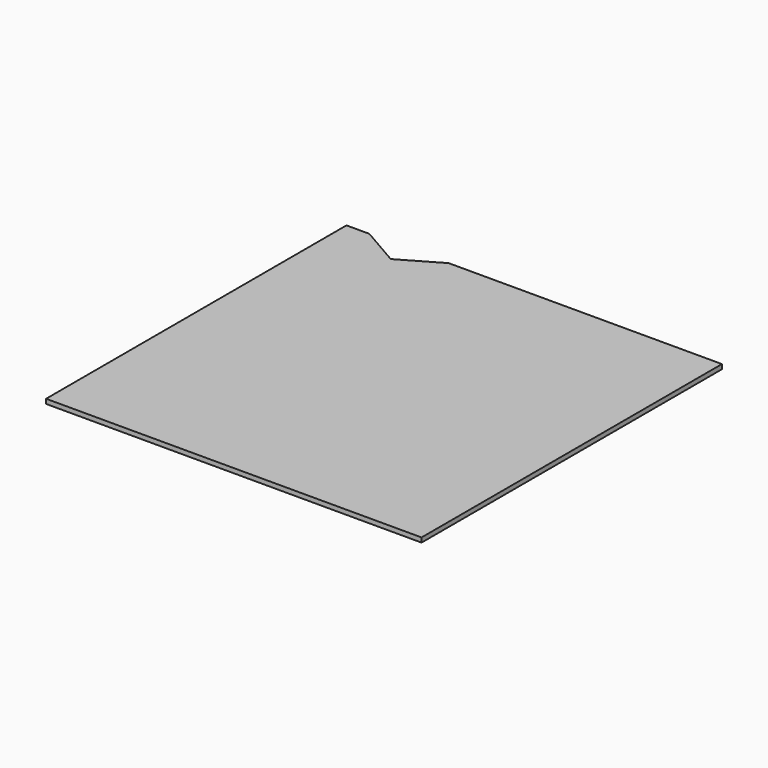
from build123d import *

# Parameters (mm, degrees)
F1_DEPTH = 3


with BuildPart() as f1:
    # F0 (on Top) → F1 (new body)
    with BuildSketch(Plane.XY):
        Polygon((-81.961524, 107.942286), (-66.961524, 81.961524), (-40.980762, 96.961524), (-55.980762, 122.942286), align=None)
        Polygon((-122.942286, 96.961524), (-107.942286, 122.942286), (-122.942286, 122.942286), align=None)
        Polygon((-122.942286, 66.961524), (-96.961524, 81.961524), (-122.942286, 96.961524), align=None)
        Polygon((-81.961524, 55.980762), (-66.961524, 81.961524), (-81.961524, 107.942286), (-96.961524, 81.961524), align=None)
        Polygon((40.980762, 96.961524), (40.980762, 66.961524), (66.961524, 81.961524), align=None)
        Polygon((-122.942286, -122.942286), (-107.942286, -122.942286), (-122.942286, -96.961524), align=None)
        Polygon((-55.980762, -122.942286), (-81.961524, -107.942286), (-107.942286, -122.942286), align=None)
        Polygon((-81.961524, -107.942286), (-66.961524, -81.961524), (-81.961524, -55.980762), (-96.961524, -81.961524), align=None)
        Polygon((-96.961524, -81.961524), (-81.961524, -55.980762), (-107.942286, -40.980762), (-122.942286, -66.961524), align=None)
        Polygon((-40.980762, -96.961524), (-40.980762, -66.961524), (-66.961524, -81.961524), align=None)
        Polygon((-66.961524, -81.961524), (-40.980762, -66.961524), (-55.980762, -40.980762), (-81.961524, -55.980762), align=None)
        Polygon((-40.980762, -15), (-15, 0), (-40.980762, 15), align=None)
        Polygon((-96.961524, 0), (-81.961524, 25.980762), (-107.942286, 40.980762), (-122.942286, 15), align=None)
        Polygon((-81.961524, -25.980762), (-66.961524, 0), (-81.961524, 25.980762), (-96.961524, 0), align=None)
        Polygon((-122.942286, -15), (-96.961524, 0), (-122.942286, 15), align=None)
        Polygon((-107.942286, 40.980762), (-81.961524, 55.980762), (-96.961524, 81.961524), (-122.942286, 66.961524), align=None)
        Polygon((-122.942286, 15), (-107.942286, 40.980762), (-122.942286, 66.961524), align=None)
        Polygon((-96.961524, 81.961524), (-81.961524, 107.942286), (-107.942286, 122.942286), (-122.942286, 96.961524), align=None)
        Polygon((-81.961524, 25.980762), (-55.980762, 40.980762), (-81.961524, 55.980762), align=None)
        Polygon((40.980762, 66.961524), (55.980762, 40.980762), (81.961524, 55.980762), (66.961524, 81.961524), align=None)
        Polygon((0, 55.980762), (25.980762, 40.980762), (40.980762, 66.961524), (15, 81.961524), align=None)
        Polygon((66.961524, 81.961524), (81.961524, 55.980762), (96.961524, 81.961524), (81.961524, 107.942286), align=None)
        Polygon((15, 81.961524), (40.980762, 66.961524), (40.980762, 96.961524), align=None)
        Polygon((-15, -81.961524), (-40.980762, -66.961524), (-40.980762, -96.961524), align=None)
        Polygon((-40.980762, -96.961524), (-66.961524, -81.961524), (-81.961524, -107.942286), (-55.980762, -122.942286), align=None)
        Polygon((0, -55.980762), (-25.980762, -40.980762), (-40.980762, -66.961524), (-15, -81.961524), align=None)
        Polygon((-40.980762, -66.961524), (-25.980762, -40.980762), (-40.980762, -15), (-55.980762, -40.980762), align=None)
        Polygon((-81.961524, -55.980762), (-55.980762, -40.980762), (-81.961524, -25.980762), align=None)
        Polygon((-107.942286, -122.942286), (-81.961524, -107.942286), (-96.961524, -81.961524), (-122.942286, -96.961524), align=None)
        Polygon((-122.942286, -96.961524), (-96.961524, -81.961524), (-122.942286, -66.961524), align=None)
        Polygon((25.980762, -122.942286), (0, -107.942286), (-25.980762, -122.942286), align=None)
        Polygon((40.980762, -96.961524), (15, -81.961524), (0, -107.942286), (25.980762, -122.942286), align=None)
        Polygon((0, -107.942286), (-15, -81.961524), (-40.980762, -96.961524), (-25.980762, -122.942286), align=None)
        Polygon((-25.980762, -122.942286), (-40.980762, -96.961524), (-55.980762, -122.942286), align=None)
        Polygon((-55.980762, 122.942286), (-40.980762, 96.961524), (-25.980762, 122.942286), align=None)
        Polygon((-25.980762, 122.942286), (0, 107.942286), (25.980762, 122.942286), align=None)
        Polygon((0, 107.942286), (15, 81.961524), (40.980762, 96.961524), (25.980762, 122.942286), align=None)
        Polygon((-40.980762, 96.961524), (-15, 81.961524), (0, 107.942286), (-25.980762, 122.942286), align=None)
        Polygon((40.980762, 96.961524), (66.961524, 81.961524), (81.961524, 107.942286), (55.980762, 122.942286), align=None)
        Polygon((25.980762, 122.942286), (40.980762, 96.961524), (55.980762, 122.942286), align=None)
        Polygon((55.980762, 122.942286), (81.961524, 107.942286), (107.942286, 122.942286), align=None)
        Polygon((107.942286, 122.942286), (122.942286, 96.961524), (122.942286, 122.942286), align=None)
        Polygon((0, -55.980762), (0, -25.980762), (-25.980762, -40.980762), align=None)
        Polygon((81.961524, 107.942286), (96.961524, 81.961524), (122.942286, 96.961524), (107.942286, 122.942286), align=None)
        Polygon((-107.942286, 40.980762), (-81.961524, 25.980762), (-81.961524, 55.980762), align=None)
        Polygon((-122.942286, -66.961524), (-107.942286, -40.980762), (-122.942286, -15), align=None)
        Polygon((-66.961524, 81.961524), (-40.980762, 66.961524), (-40.980762, 96.961524), align=None)
        Polygon((-81.961524, -55.980762), (-81.961524, -25.980762), (-107.942286, -40.980762), align=None)
        Polygon((-107.942286, -40.980762), (-81.961524, -25.980762), (-96.961524, 0), (-122.942286, -15), align=None)
        Polygon((122.942286, -66.961524), (96.961524, -81.961524), (122.942286, -96.961524), align=None)
        Polygon((122.942286, -96.961524), (96.961524, -81.961524), (81.961524, -107.942286), (107.942286, -122.942286), align=None)
        Polygon((66.961524, -81.961524), (40.980762, -66.961524), (40.980762, -96.961524), align=None)
        Polygon((81.961524, -55.980762), (55.980762, -40.980762), (40.980762, -66.961524), (66.961524, -81.961524), align=None)
        Polygon((-40.980762, 96.961524), (-40.980762, 66.961524), (-15, 81.961524), align=None)
        Polygon((40.980762, -96.961524), (40.980762, -66.961524), (15, -81.961524), align=None)
        Polygon((107.942286, -122.942286), (81.961524, -107.942286), (55.980762, -122.942286), align=None)
        Polygon((-15, 81.961524), (0, 55.980762), (15, 81.961524), (0, 107.942286), align=None)
        Polygon((55.980762, -122.942286), (40.980762, -96.961524), (25.980762, -122.942286), align=None)
        Polygon((0, -25.980762), (15, 0), (0, 25.980762), (-15, 0), align=None)
        Polygon((0, 25.980762), (15, 0), (40.980762, 15), (25.980762, 40.980762), align=None)
        Polygon((122.942286, 96.961524), (96.961524, 81.961524), (122.942286, 66.961524), align=None)
        Polygon((25.980762, 40.980762), (40.980762, 15), (55.980762, 40.980762), (40.980762, 66.961524), align=None)
        Polygon((25.980762, -40.980762), (0, -25.980762), (0, -55.980762), align=None)
        Polygon((96.961524, 0), (81.961524, -25.980762), (107.942286, -40.980762), (122.942286, -15), align=None)
        Polygon((66.961524, 0), (40.980762, 15), (40.980762, -15), align=None)
        Polygon((122.942286, 66.961524), (107.942286, 40.980762), (122.942286, 15), align=None)
        Polygon((55.980762, -40.980762), (40.980762, -15), (25.980762, -40.980762), (40.980762, -66.961524), align=None)
        Polygon((81.961524, 25.980762), (66.961524, 0), (81.961524, -25.980762), (96.961524, 0), align=None)
        Polygon((40.980762, -15), (15, 0), (0, -25.980762), (25.980762, -40.980762), align=None)
        Polygon((122.942286, -122.942286), (122.942286, -96.961524), (107.942286, -122.942286), align=None)
        Polygon((-15, 0), (0, 25.980762), (-25.980762, 40.980762), (-40.980762, 15), align=None)
        Polygon((-25.980762, 40.980762), (0, 25.980762), (0, 55.980762), align=None)
        Polygon((107.942286, 40.980762), (81.961524, 25.980762), (96.961524, 0), (122.942286, 15), align=None)
        Polygon((122.942286, 15), (96.961524, 0), (122.942286, -15), align=None)
        Polygon((66.961524, 0), (40.980762, -15), (55.980762, -40.980762), (81.961524, -25.980762), align=None)
        Polygon((55.980762, 40.980762), (40.980762, 15), (66.961524, 0), (81.961524, 25.980762), align=None)
        Polygon((15, -81.961524), (0, -55.980762), (-15, -81.961524), (0, -107.942286), align=None)
        Polygon((0, 55.980762), (0, 25.980762), (25.980762, 40.980762), align=None)
        Polygon((96.961524, 81.961524), (81.961524, 55.980762), (107.942286, 40.980762), (122.942286, 66.961524), align=None)
        Polygon((81.961524, 55.980762), (55.980762, 40.980762), (81.961524, 25.980762), align=None)
        Polygon((81.961524, -25.980762), (55.980762, -40.980762), (81.961524, -55.980762), (107.942286, -40.980762), align=None)
        Polygon((81.961524, 55.980762), (81.961524, 25.980762), (107.942286, 40.980762), align=None)
        Polygon((122.942286, -15), (107.942286, -40.980762), (122.942286, -66.961524), align=None)
        Polygon((-40.980762, 66.961524), (-25.980762, 40.980762), (0, 55.980762), (-15, 81.961524), align=None)
        Polygon((107.942286, -40.980762), (81.961524, -55.980762), (96.961524, -81.961524), (122.942286, -66.961524), align=None)
        Polygon((96.961524, -81.961524), (81.961524, -55.980762), (66.961524, -81.961524), (81.961524, -107.942286), align=None)
        Polygon((81.961524, -107.942286), (66.961524, -81.961524), (40.980762, -96.961524), (55.980762, -122.942286), align=None)
        Polygon((-25.980762, -40.980762), (0, -25.980762), (-15, 0), (-40.980762, -15), align=None)
        Polygon((-55.980762, 40.980762), (-40.980762, 66.961524), (-66.961524, 81.961524), (-81.961524, 55.980762), align=None)
        Polygon((-40.980762, 15), (-25.980762, 40.980762), (-40.980762, 66.961524), (-55.980762, 40.980762), align=None)
        Polygon((40.980762, 15), (15, 0), (40.980762, -15), align=None)
        Polygon((40.980762, -66.961524), (25.980762, -40.980762), (0, -55.980762), (15, -81.961524), align=None)
        Polygon((-40.980762, -15), (-40.980762, 15), (-66.961524, 0), align=None)
        Polygon((-55.980762, -40.980762), (-40.980762, -15), (-66.961524, 0), (-81.961524, -25.980762), align=None)
        Polygon((-66.961524, 0), (-40.980762, 15), (-55.980762, 40.980762), (-81.961524, 25.980762), align=None)
    extrude(amount=F1_DEPTH)


solid = f1.part
